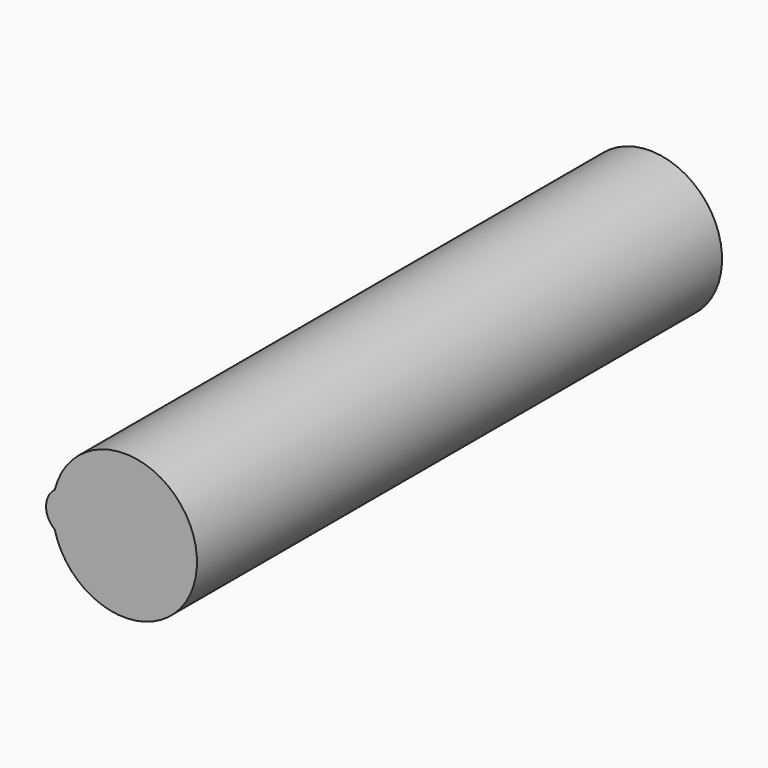
from build123d import *

# Parameters (mm, degrees)
CYLINDER007_R     = 0.5
CYLINDER007_DEPTH = 15
CYLINDER006_R     = 1.65
CYLINDER006_DEPTH = 15


with BuildPart() as cylinder007:
    # Cylinder007 → Cylinder007 (new body)
    with BuildSketch(Plane(origin=(-1.3, 9, 15.5), x_dir=(1, 0, 0), z_dir=(0, -1, 0))):
        Circle(CYLINDER007_R)
    extrude(amount=CYLINDER007_DEPTH)


with BuildPart() as fusion:
    # Cylinder006 → Cylinder006 (new body)
    with BuildSketch(Plane(origin=(0, 9, 15.5), x_dir=(1, 0, 0), z_dir=(0, -1, 0))):
        Circle(CYLINDER006_R)
    extrude(amount=CYLINDER006_DEPTH)

    # Fusion: union Cylinder007
    add(cylinder007.part)


solid = fusion.part
